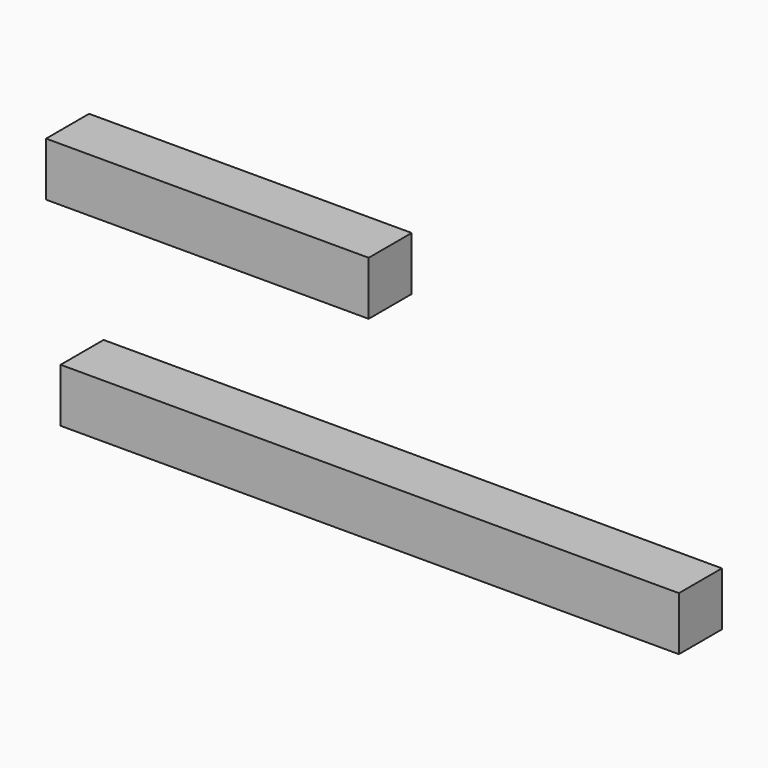
from build123d import *

# Parameters (mm, degrees)
F0_W     = 152.4
F0_H     = 25.4
F0_W_2   = 292.1
F1_DEPTH = 25.4


with BuildPart() as f1:
    # F0 (on Front) → F1 (new body)
    with BuildSketch(Plane.XZ):
        with Locations((-0.371407, 39.890791)):
            Rectangle(F0_W, F0_H)
        with Locations((76.336589, -51.93021)):
            Rectangle(F0_W_2, F0_H)
    extrude(amount=F1_DEPTH)


solid = f1.part
